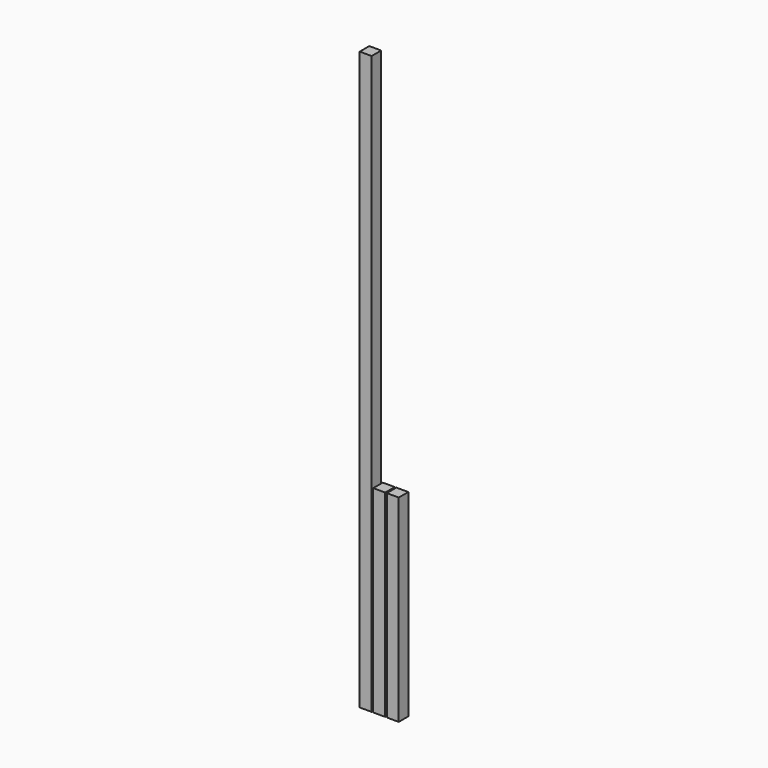
from build123d import *

# Parameters (mm, degrees)
F4_W     = 20
F4_H     = 20
F5_DEPTH = 965.2
F6_DEPTH = 330.2
F7_DEPTH = 330.2


with BuildPart() as f5:
    # F4 (on Top) → F5 (new body)
    with BuildSketch(Plane.XY):
        with Locations((-82.7848015636, 25.810001418)):
            Rectangle(F4_W, F4_H)
    extrude(amount=F5_DEPTH)


with BuildPart() as f6:
    # F4 (on Top) → F6 (new body)
    with BuildSketch(Plane.XY):
        with Locations((-60.1341330118, 25.810001418)):
            Rectangle(F4_W, F4_H)
    extrude(amount=F6_DEPTH)


with BuildPart() as f7:
    # F4 (on Top) → F7 (new body)
    with BuildSketch(Plane.XY):
        with Locations((-37.4834644599, 25.810001418)):
            Rectangle(F4_W, F4_H)
    extrude(amount=F7_DEPTH)


solid = Compound([f5.part, f6.part, f7.part])
